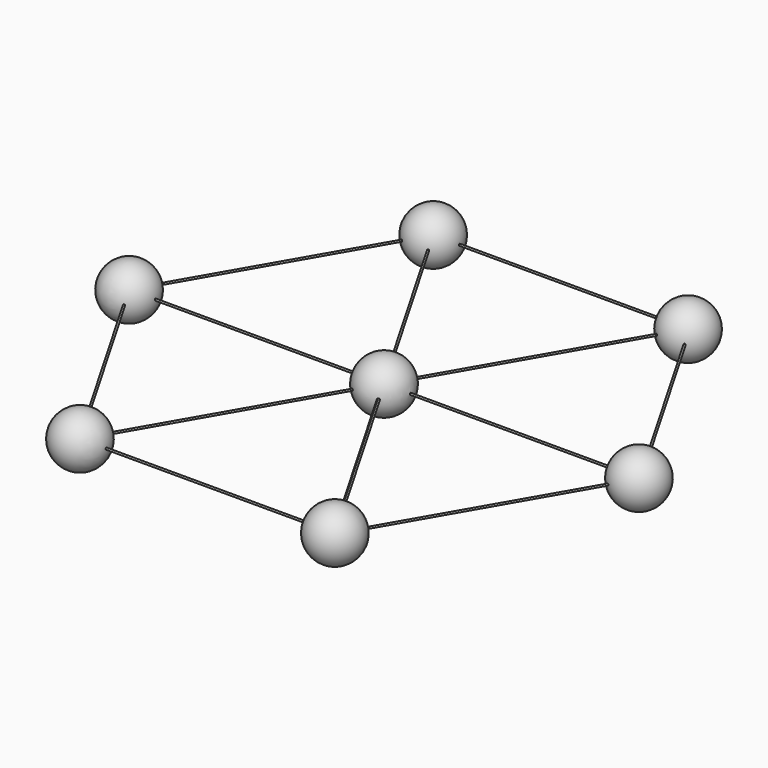
from build123d import *

# Parameters (mm, degrees)
F8_R      = 0.05
F7_R      = 0.05
F6_R      = 0.05
F14_COUNT = 6
F16_R     = 0.05
F20_R     = 0.05
F24_R     = 0.05


with BuildPart() as f1:
    # F0 (on Top) → F1 (revolve)
    with BuildSketch(Plane.XY):
        with BuildLine():
            Line((0, 1.5), (0, -1.5))
            ThreePointArc((0, -1.5), (1.5, 0), (0, 1.5))
        make_face()
    revolve(axis=Axis((0, 0, 0), (0, -1, 0)))

    # F9: sweep along a path in F2
    with BuildLine(Plane.XY) as f9_path:
        Line((-7.2168783649, 12.5), (0, 0))
        Line((0, 0), (7.2168783649, -12.5))
    # F8 (on line) → F9 (sweep)
    with BuildSketch(Plane(origin=(-7.2168783649, 12.5, 0), x_dir=(-0.8660254038, -0.5, 0), z_dir=(-0.5, 0.8660254038, 0))):
        Circle(F8_R)
    sweep(path=f9_path.line)

    # F10: sweep along a path in F2
    with BuildLine(Plane.XY) as f10_path:
        Line((-14.4337567297, 0), (0, 0))
        Line((0, 0), (14.4337567297, 0))
    # F7 (on line) → F10 (sweep)
    with BuildSketch(Plane(origin=(-14.4337567297, 0, 0), x_dir=(0, -1, 0), z_dir=(-1, 0, 0))):
        Circle(F7_R)
    sweep(path=f10_path.line)

    # F11: sweep along a path in F2
    with BuildLine(Plane.XY) as f11_path:
        Line((-7.2168783649, -12.5), (0, 0))
        Line((0, 0), (7.2168783649, 12.5))
    # F6 (on line) → F11 (sweep)
    with BuildSketch(Plane(origin=(-7.2168783649, -12.5, 0), x_dir=(0.8660254038, -0.5, 0), z_dir=(-0.5, -0.8660254038, 0))):
        Circle(F6_R)
    sweep(path=f11_path.line)


with BuildPart() as f13:
    # F12 (on line) → F13 (revolve)
    with BuildSketch(Plane(origin=(-7.2168783649, -12.5, 0), x_dir=(0.8660254038, -0.5, 0), z_dir=(-0.5, -0.8660254038, 0))):
        with BuildLine():
            Line((0, 1.5), (0, -1.5))
            ThreePointArc((0, -1.5), (1.5, 0), (0, 1.5))
        make_face()
    revolve(axis=Axis((-7.2168783649, -12.5, 0), (0, 0, -1)))


with BuildPart() as f14_1:
    # F14: instance of F13
    add(f13.part.rotate(Axis((0, 0, 0), (0, 0, 1)), 1 * 360 / F14_COUNT))


with BuildPart() as f14_2:
    # F14: instance of F13
    add(f13.part.rotate(Axis((0, 0, 0), (0, 0, 1)), 2 * 360 / F14_COUNT))


with BuildPart() as f14_3:
    # F14: instance of F13
    add(f13.part.rotate(Axis((0, 0, 0), (0, 0, 1)), 3 * 360 / F14_COUNT))


with BuildPart() as f14_4:
    # F14: instance of F13
    add(f13.part.rotate(Axis((0, 0, 0), (0, 0, 1)), 4 * 360 / F14_COUNT))


with BuildPart() as f14_5:
    # F14: instance of F13
    add(f13.part.rotate(Axis((0, 0, 0), (0, 0, 1)), 5 * 360 / F14_COUNT))


with BuildPart() as f17:
    # F17: sweep along a path in F2
    with BuildLine(Plane.XY) as f17_path:
        Line((7.2168783649, -12.5), (-7.2168783649, -12.5))
    # F16 (on offset) → F17 (sweep)
    with BuildSketch(Plane.YZ.offset(7.3)):
        with Locations((-12.5, 0)):
            Circle(F16_R)
    sweep(path=f17_path.line)


with BuildPart() as f18:
    # F18: sweep along a path in F2
    with BuildLine(Plane.XY) as f18_path:
        Line((-7.2168783649, 12.5), (7.2168783649, 12.5))
    # F16 (on offset) → F18 (sweep)
    with BuildSketch(Plane.YZ.offset(7.3)):
        with Locations((12.5, 0)):
            Circle(F16_R)
    sweep(path=f18_path.line)


with BuildPart() as f21:
    # F21: sweep along a path in F2
    with BuildLine(Plane.XY) as f21_path:
        Line((14.4337567297, 0), (7.2168783649, -12.5))
    # F20 (on offset) → F21 (sweep)
    with BuildSketch(Plane(origin=(-3.6668783649, -6.3512196331, 0), x_dir=(0.8660254038, -0.5, 0), z_dir=(-0.5, -0.8660254038, 0))):
        with Locations((12.5719854476, 0)):
            Circle(F20_R)
    sweep(path=f21_path.line)


with BuildPart() as f22:
    # F22: sweep along a path in F2
    with BuildLine(Plane.XY) as f22_path:
        Line((-14.4337567297, 0), (-7.2168783649, 12.5))
    # F20 (on offset) → F22 (sweep)
    with BuildSketch(Plane(origin=(-3.6668783649, -6.3512196331, 0), x_dir=(0.8660254038, -0.5, 0), z_dir=(-0.5, -0.8660254038, 0))):
        with Locations((-12.5, 0)):
            Circle(F20_R)
    sweep(path=f22_path.line)


with BuildPart() as f25:
    # F25: sweep along a path in F2
    with BuildLine(Plane.XY) as f25_path:
        Line((-7.2168783649, -12.5), (-14.4337567297, 0))
    # F24 (on line) → F25 (sweep)
    with BuildSketch(Plane(origin=(3.6084391824, -6.25, 0), x_dir=(-0.8660254038, -0.5, 0), z_dir=(-0.5, 0.8660254038, 0))):
        with Locations((12.5, 0)):
            Circle(F24_R)
    sweep(path=f25_path.line)


with BuildPart() as f26:
    # F26: sweep along a path in F2
    with BuildLine(Plane.XY) as f26_path:
        Line((7.2168783649, 12.5), (14.4337567297, 0))
    # F20 (on offset) → F26 (sweep)
    with BuildSketch(Plane(origin=(-3.6668783649, -6.3512196331, 0), x_dir=(0.8660254038, -0.5, 0), z_dir=(-0.5, -0.8660254038, 0))):
        with Locations((12.5719854476, 0)):
            Circle(F20_R)
    sweep(path=f26_path.line)


with BuildPart() as f27:
    # F27: sweep along a path in F2
    with BuildLine(Plane.XY) as f27_path:
        Line((7.2168783649, 12.5), (14.4337567297, 0))
    # F24 (on line) → F27 (sweep)
    with BuildSketch(Plane(origin=(3.6084391824, -6.25, 0), x_dir=(-0.8660254038, -0.5, 0), z_dir=(-0.5, 0.8660254038, 0))):
        with Locations((-12.5719854476, 0)):
            Circle(F24_R)
    sweep(path=f27_path.line)


solid = Compound([f1.part, f13.part, f14_1.part, f14_2.part, f14_3.part, f14_4.part, f14_5.part, f17.part, f18.part, f21.part, f22.part, f25.part, f26.part, f27.part])
